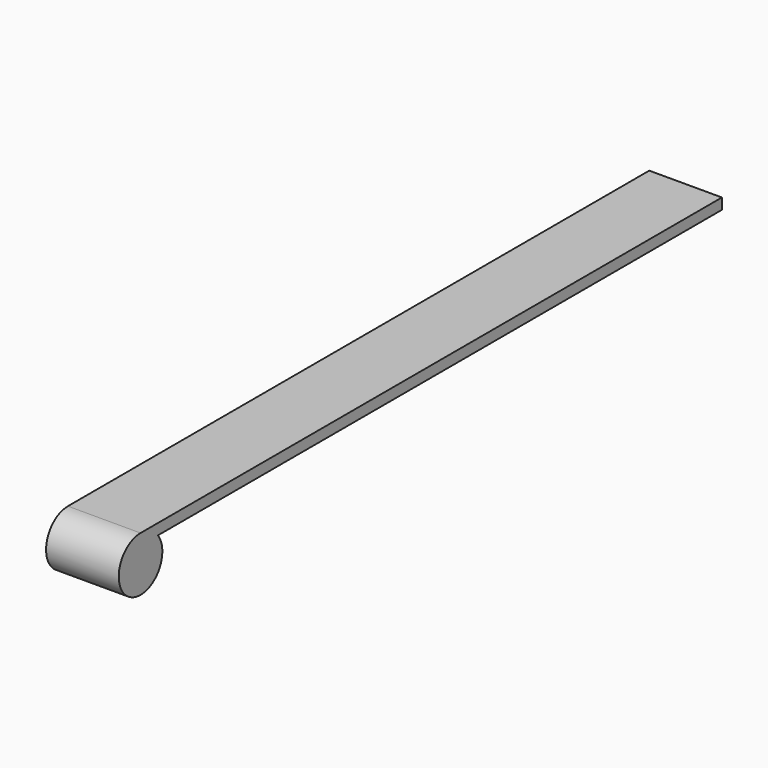
from build123d import *

# Parameters (mm, degrees)
F1_DEPTH = 20


with BuildPart() as f1:
    # F0 (on Right) → F1 (new body)
    with BuildSketch(Plane.YZ):
        with BuildLine():
            Line((200, 7.5), (0, 7.5))
            ThreePointArc((0, 7.5), (3.354102, 6.708204), (6, 4.5))
            Line((6, 4.5), (200, 4.5))
            Line((200, 4.5), (200, 7.5))
        make_face()
        with BuildLine():
            ThreePointArc((6, 4.5), (3.354102, 6.708204), (0, 7.5))
            Line((0, 7.5), (0, 4.5))
            Line((0, 4.5), (6, 4.5))
        make_face()
        with BuildLine():
            Line((0, 4.5), (0, 7.5))
            ThreePointArc((0, 7.5), (-5.303301, -5.303301), (7.5, 0))
            ThreePointArc((7.5, 0), (7.115125, 2.371708), (6, 4.5))
            Line((6, 4.5), (0, 4.5))
        make_face()
    extrude(amount=F1_DEPTH)


solid = f1.part
